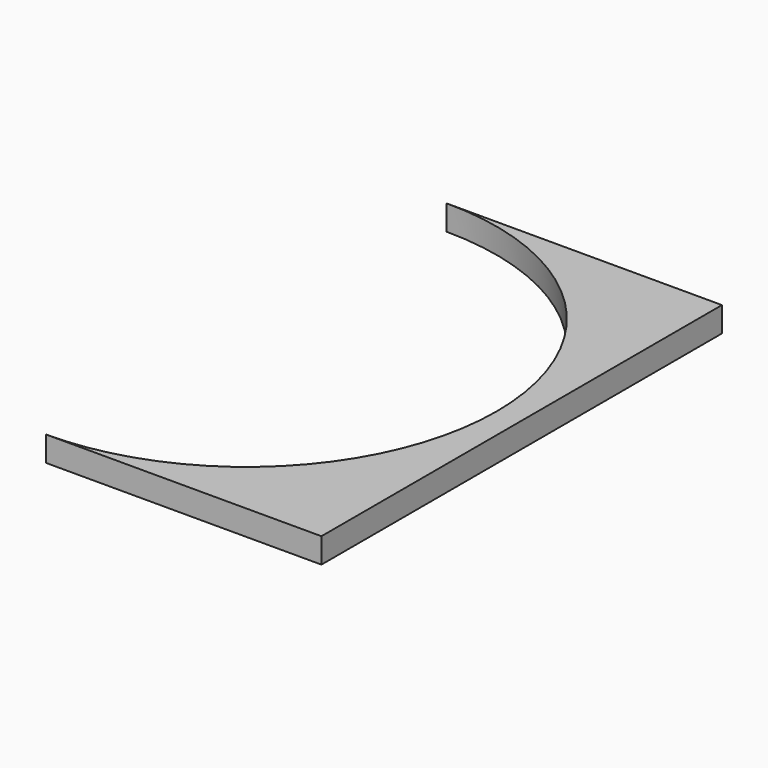
from build123d import *

# Parameters (mm, degrees)
F0_W          = 11
F0_H          = 20
F1_DEPTH      = 1
F3_DEPTH      = 25.4
F3_DEPTH_BACK = 25.4


with BuildPart() as f1:
    # F0 (on Top) → F1 (new body)
    with BuildSketch(Plane.XY):
        with Locations((0, 3.033641)):
            Rectangle(F0_W, F0_H)
    extrude(amount=F1_DEPTH)

    # F2 (on face) → F3 (cut, two sides)
    with BuildSketch(Plane.XY.offset(1)) as f3_sk:
        with BuildLine():
            ThreePointArc((-5.5, -6.966359), (1.571068, -4.037426), (4.5, 3.033641))
            ThreePointArc((4.5, 3.033641), (1.571068, 10.104709), (-5.5, 13.033641))
            Line((-5.5, 13.033641), (-5.5, -6.966359))
        make_face()
    extrude(amount=-F3_DEPTH, mode=Mode.SUBTRACT)
    extrude(f3_sk.sketch, amount=-F3_DEPTH_BACK, mode=Mode.SUBTRACT)


solid = f1.part
